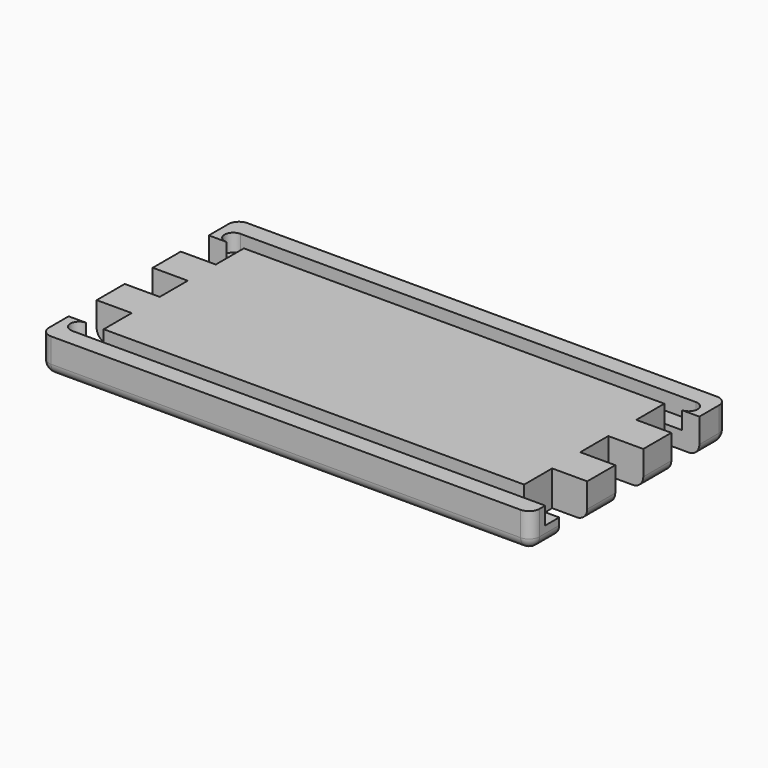
from build123d import *

# Parameters (mm, degrees)
SKETCH_W             = 70
SKETCH_H             = 140
PAD_DEPTH            = 10
FILLET_R             = 3
FILLET001_R          = 3
SKETCH001_W          = 10
SKETCH001_H          = 10
POCKET_DEPTH         = 10.001
POCKET001_DEPTH      = 5
FILLET002_R          = 3
FILLET003_R          = 3
BODY_PLACEMENT_ANGLE = 90


with BuildPart() as part:
    # Sketch → Pad (new body)
    with BuildSketch(Plane.YZ):
        Rectangle(SKETCH_W, SKETCH_H)
    extrude(amount=PAD_DEPTH)

    # Fillet
    fillet_edges = [part.edges().sort_by_distance(p)[0] for p in [
        (10, 0, 70),
    ]]
    fillet(fillet_edges, radius=FILLET_R)

    # Fillet001
    fillet001_edges = [part.edges().sort_by_distance(p)[0] for p in [
        (10, 0, -70),
    ]]
    fillet(fillet001_edges, radius=FILLET001_R)

    # Sketch001 (on Face7 of Fillet001) → Pocket (cut, through all)
    with BuildSketch(Plane(origin=(0, 0, 0), x_dir=(0, 1, 0), z_dir=(-1, 0, 0))):
        with Locations((-20, 65)):
            Rectangle(SKETCH001_W, SKETCH001_H)
        with Locations((0, 65)):
            Rectangle(SKETCH001_W, SKETCH001_H)
        with Locations((20, 65)):
            Rectangle(SKETCH001_W, SKETCH001_H)
        with Locations((-20, -65)):
            Rectangle(SKETCH001_W, SKETCH001_H)
        with Locations((0, -65)):
            Rectangle(SKETCH001_W, SKETCH001_H)
        with Locations((20, -65)):
            Rectangle(SKETCH001_W, SKETCH001_H)
    extrude(amount=-POCKET_DEPTH, mode=Mode.SUBTRACT)

    # Sketch002 (on Face7 of Pocket) → Pocket001 (cut)
    with BuildSketch(Plane(origin=(0, 0, 0), x_dir=(0, 1, 0), z_dir=(-1, 0, 0))):
        with BuildLine():
            ThreePointArc((25, -65), (27.5, -67.5), (30, -65))
            Line((30, -65), (30, 65))
            ThreePointArc((30, 65), (27.5, 67.5), (25, 65))
            Line((25, -65), (25, 65))
        make_face()
        with BuildLine():
            ThreePointArc((-30, -70), (-27.5, -72.5), (-25, -70))
            Line((-25, -70), (-25, 65))
            ThreePointArc((-25, 65), (-27.5, 67.5), (-30, 65))
            Line((-30, -70), (-30, 65))
        make_face()
    extrude(amount=-POCKET001_DEPTH, mode=Mode.SUBTRACT)

    # Fillet002
    fillet002_edges = [part.edges().sort_by_distance(p)[0] for p in [
        (10, -35, 0),
    ]]
    fillet(fillet002_edges, radius=FILLET002_R)

    # Fillet003
    fillet003_edges = [part.edges().sort_by_distance(p)[0] for p in [
        (10, 35, 0),
    ]]
    fillet(fillet003_edges, radius=FILLET003_R)


with BuildPart() as part_1:
    # Body placement: moved
    add(part.part.rotate(Axis((0, 0, 0), (0, 1, 0)), BODY_PLACEMENT_ANGLE))


with BuildPart() as part_2:
    # Clone placement: moved
    add(part_1.part.moved(Location((70, 35, 0))))


solid = part_2.part
